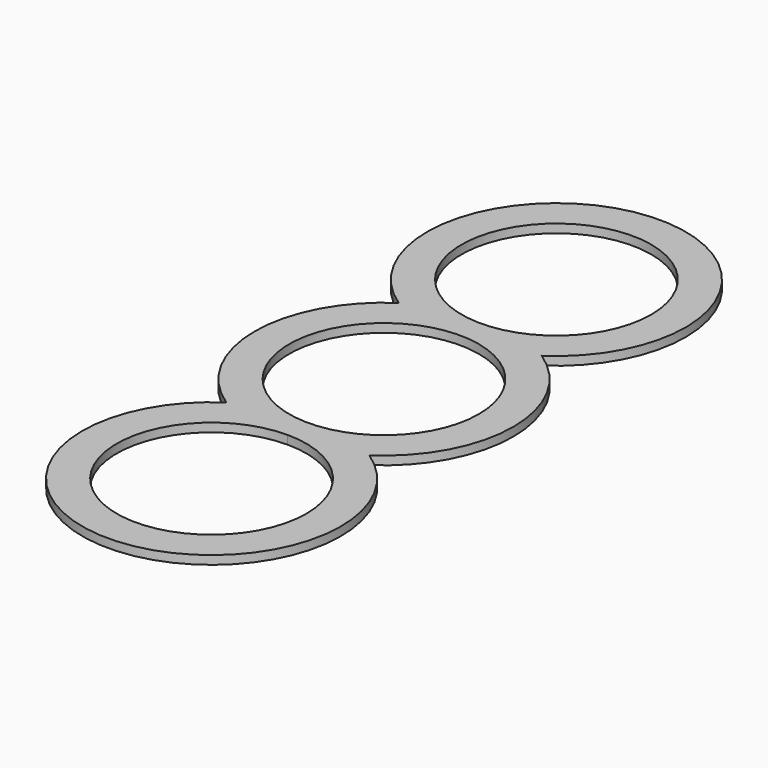
from build123d import *

# Parameters (mm, degrees)
F0_R     = 11
F1_DEPTH = 1


with BuildPart() as f1:
    # F0 (on Top) → F1 (new body)
    with BuildSketch(Plane.XY):
        with BuildLine():
            ThreePointArc((8.291562, -12.5), (15, 0), (8.291562, 12.5))
            ThreePointArc((8.291562, 12.5), (0, 40), (-8.291562, 12.5))
            ThreePointArc((-8.291562, 12.5), (-15, 0), (-8.291562, -12.5))
            ThreePointArc((-8.291562, -12.5), (0, -40), (8.291562, -12.5))
        make_face()
        with BuildLine():
            ThreePointArc((0, -14), (7.778175, -17.221825), (11, -25))
            ThreePointArc((11, -25), (-7.778175, -32.778175), (0, -14))
        make_face(mode=Mode.SUBTRACT)
        Circle(F0_R, mode=Mode.SUBTRACT)
        with Locations((0, 25)):
            Circle(F0_R, mode=Mode.SUBTRACT)
    extrude(amount=F1_DEPTH)


solid = f1.part
